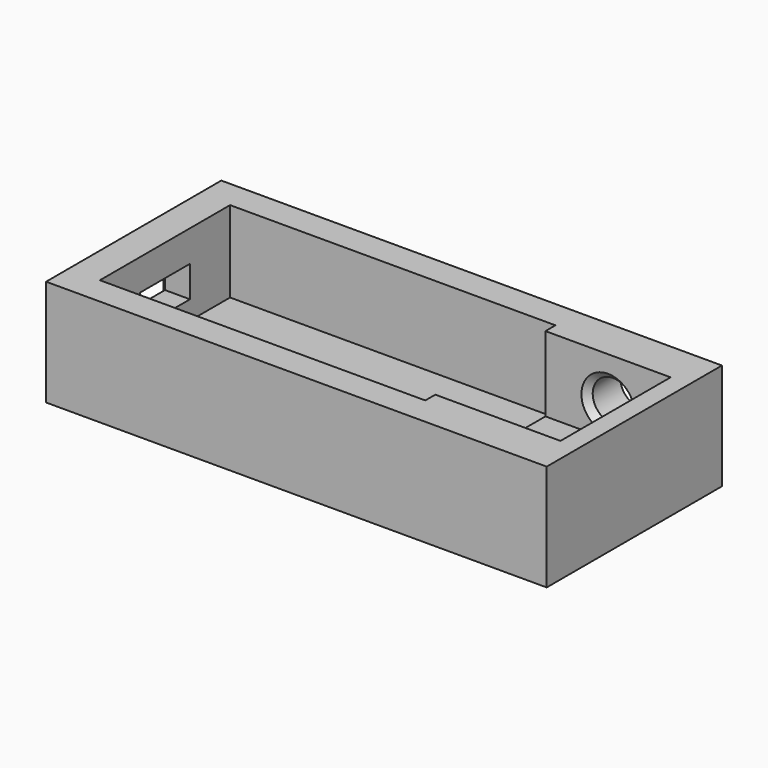
from build123d import *

# Parameters (mm, degrees)
SKETCH_W        = 80
SKETCH_H        = 35
PAD_DEPTH       = 17
SKETCH001_W     = 52
SKETCH001_H     = 26
POCKET_DEPTH    = 13
SKETCH002_W     = 10
SKETCH002_H     = 5
POCKET001_DEPTH = 10
SKETCH005_R     = 5.25
POCKET004_DEPTH = 3
SKETCH007_W     = 20
SKETCH007_H     = 22
POCKET005_DEPTH = 12
SKETCH008_R     = 3.25
POCKET006_DEPTH = 6.5
CHAMFER_SIZE    = 1
CHAMFER001_SIZE = 1


with BuildPart() as part:
    # Sketch → Pad (new body)
    with BuildSketch(Plane.XY):
        with Locations((40, 17.5)):
            Rectangle(SKETCH_W, SKETCH_H)
    extrude(amount=PAD_DEPTH)

    # Sketch001 (on Face6 of Pad) → Pocket (cut)
    with BuildSketch(Plane.XY.offset(17)):
        with Locations((31, 17.5)):
            Rectangle(SKETCH001_W, SKETCH001_H)
    extrude(amount=-POCKET_DEPTH, mode=Mode.SUBTRACT)

    # Sketch002 (on Face2 of Pocket) → Pocket001 (cut)
    with BuildSketch(Plane(origin=(0, 0, 0), x_dir=(0, -1, 0), z_dir=(-1, 0, 0))):
        with Locations((-17.5, 9.5)):
            Rectangle(SKETCH002_W, SKETCH002_H)
    extrude(amount=-POCKET001_DEPTH, mode=Mode.SUBTRACT)

    # Sketch005 → Pocket004 (cut)
    with BuildSketch(Plane.XY.offset(4)):
        with Locations((15, 17.5)):
            Circle(SKETCH005_R)
        with Locations((45, 17.5)):
            Circle(SKETCH005_R)
    extrude(amount=-POCKET004_DEPTH, mode=Mode.SUBTRACT)

    # Sketch007 (on Face5 of Pocket004) → Pocket005 (cut)
    with BuildSketch(Plane.XY.offset(17)):
        with Locations((67, 17.5)):
            Rectangle(SKETCH007_W, SKETCH007_H)
    extrude(amount=-POCKET005_DEPTH, mode=Mode.SUBTRACT)

    # Sketch008 (on Face6 of Pocket005) → Pocket006 (cut)
    with BuildSketch(Plane(origin=(0, 35, 0), x_dir=(-1, 0, 0), z_dir=(0, 1, 0))):
        with Locations((-67, 10)):
            Circle(SKETCH008_R)
    extrude(amount=-POCKET006_DEPTH, mode=Mode.SUBTRACT)

    # Chamfer
    chamfer_edges = [part.edges().sort_by_distance(p)[0] for p in [
        (70.25, 28.5, 10),
    ]]
    chamfer(chamfer_edges, length=CHAMFER_SIZE)

    # Chamfer001
    chamfer001_edges = [part.edges().sort_by_distance(p)[0] for p in [
        (0, 22.5, 9.5),
        (0, 17.5, 7),
        (0, 17.5, 12),
        (0, 12.5, 9.5),
    ]]
    chamfer(chamfer001_edges, length=CHAMFER001_SIZE)


solid = part.part
